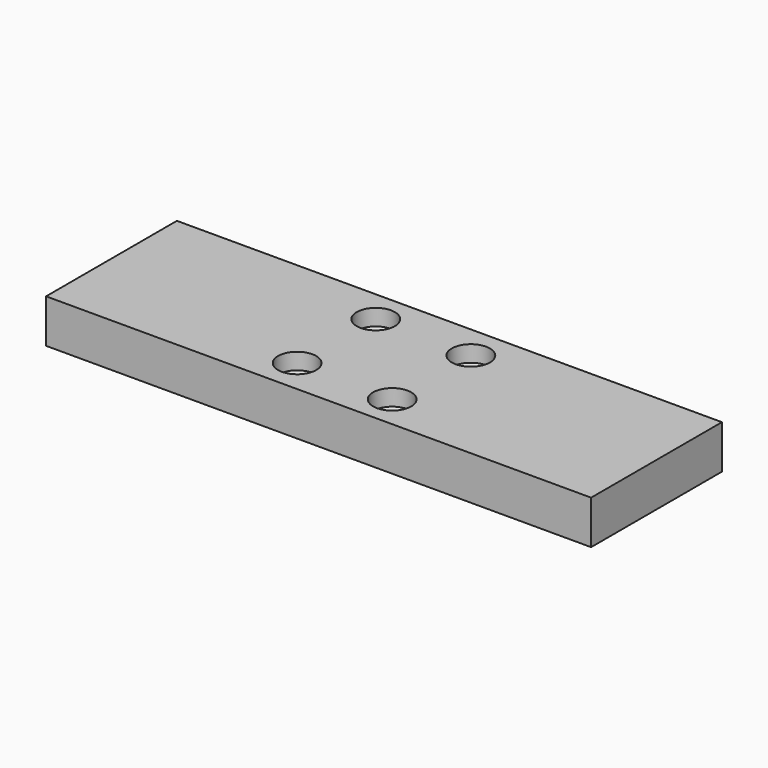
from build123d import *

# Parameters (mm, degrees)
F0_W     = 100
F0_H     = 30
F1_DEPTH = 8
F3_D     = 7
F3_DEPTH = 3
F3_TIP   = 2.1030121666


with BuildPart() as f1:
    # F0 (on Top) → F1 (new body)
    with BuildSketch(Plane.XY):
        with Locations((-9.1803266555, 1.6609177441)):
            Rectangle(F0_W, F0_H)
        with BuildLine():
            ThreePointArc((-16.4140304677, -7.0306336602), (-19.7862985458, -7.6869463014), (-16.906311934, -5.8138164636))
            ThreePointArc((-16.906311934, -5.8138164636), (-16.5417623897, -6.374321019), (-16.4140304677, -7.0306336602))
        make_face(mode=Mode.SUBTRACT)
        with BuildLine():
            ThreePointArc((1.2612247488, -7.3227860681), (-1.1718088909, -8.9339859462), (-1.7055924478, -6.0650675344))
            ThreePointArc((-1.7055924478, -6.0650675344), (0.1942583885, -5.7115861901), (1.2612247488, -7.3227860681))
        make_face(mode=Mode.SUBTRACT)
        with BuildLine():
            ThreePointArc((-16.6550608632, 9.3869030227), (-19.4830779378, 11.3276551961), (-16.1218780598, 10.6446215564))
            ThreePointArc((-16.1218780598, 10.6446215564), (-16.2606781817, 9.9615879167), (-16.6550608632, 9.3869030227))
        make_face(mode=Mode.SUBTRACT)
        with BuildLine():
            ThreePointArc((1.5533771568, 10.3524691484), (0.459689798, 8.7302010704), (-1.4543413769, 9.1356519518))
            ThreePointArc((-1.4543413769, 9.1356519518), (-0.8529354844, 11.9747372265), (1.5533771568, 10.3524691484))
        make_face(mode=Mode.SUBTRACT)
    extrude(amount=F1_DEPTH)

    # F3
    with Locations(Plane.XY.offset(8)):
        with Locations((-0.4887752512, -7.3227860681), (-18.1640304677, -7.0306336602), (-17.8718780598, 10.6446215564), (-0.1966228432, 10.3524691484)):
            Hole(F3_D / 2, depth=F3_DEPTH)
            with Locations((0, 0, -(F3_DEPTH + F3_TIP / 2))):  # 118° drill point
                Cone(0, F3_D / 2, F3_TIP, mode=Mode.SUBTRACT)


solid = f1.part
